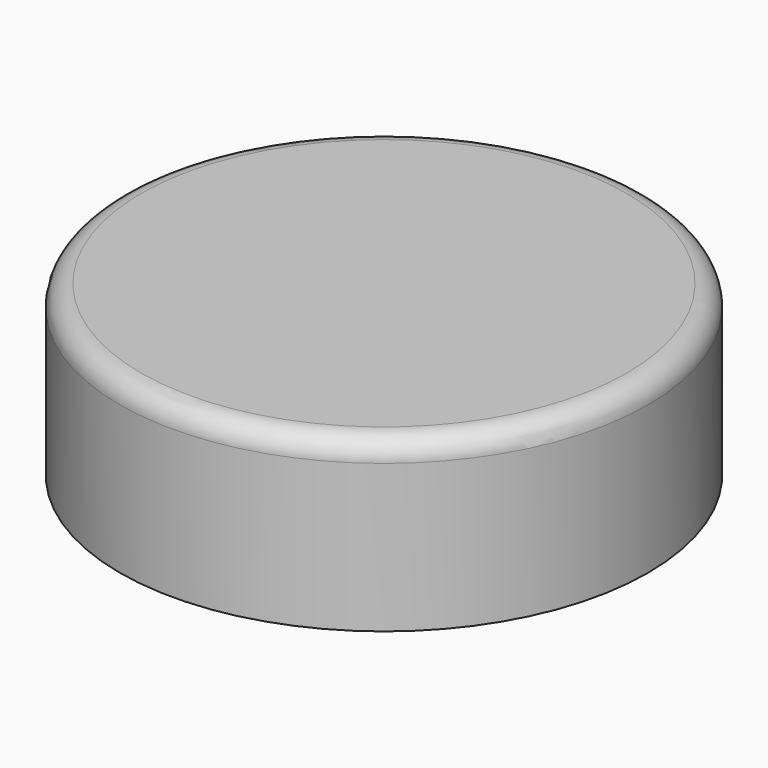
from build123d import *

# Parameters (mm, degrees)
SKETCH062_R     = 12.5
PAD031_DEPTH    = 8
SKETCH063_R     = 3.5
POCKET031_DEPTH = 6.5
FILLET004_R     = 1
SKETCH064_R     = 2
POCKET032_DEPTH = 10


with BuildPart() as part:
    # Sketch062 → Pad031 (new body)
    with BuildSketch(Plane.XY):
        Circle(SKETCH062_R)
    extrude(amount=PAD031_DEPTH)

    # Sketch063 (on Face2 of Pad031) → Pocket031 (cut)
    with BuildSketch(Plane(origin=(0, 0, 0), x_dir=(1, 0, 0), z_dir=(0, 0, -1))):
        Circle(SKETCH063_R)
    extrude(amount=-POCKET031_DEPTH, mode=Mode.SUBTRACT)

    # Fillet004
    fillet004_edges = [part.edges().sort_by_distance(p)[0] for p in [
        (-12.5, 0, 8),
    ]]
    fillet(fillet004_edges, radius=FILLET004_R)

    # Sketch064 (on DatumPlane) → Pocket032 (cut)
    with BuildSketch(Plane(origin=(0, 12.5, 3.5), x_dir=(-1, 0, 0), z_dir=(0, 1, 0))):
        Circle(SKETCH064_R)
    extrude(amount=-POCKET032_DEPTH, mode=Mode.SUBTRACT)


with BuildPart() as part_1:
    # Body016 placement: moved
    add(part.part.moved(Location((207.5, 67.5, 2.5))))


solid = part_1.part
